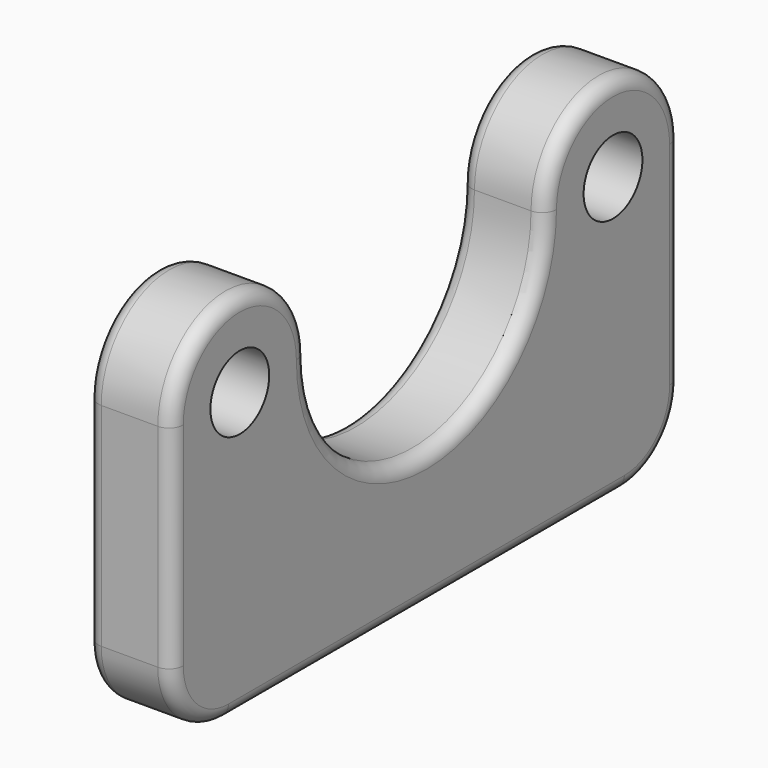
from build123d import *

# Parameters (mm, degrees)
F0_R     = 2.6
F1_DEPTH = 6
F2_R     = 1


with BuildPart() as f1:
    # F0 (on Right) → F1 (new body)
    with BuildSketch(Plane.YZ):
        with BuildLine():
            ThreePointArc((10.5, 0), (0, -10.5), (-10.5, 0))
            ThreePointArc((-10.5, 0), (-16.5, 6), (-22.5, 0))
            Line((-22.5, 0), (-22.5, -15))
            ThreePointArc((-22.5, -15), (-21.035534, -18.535534), (-17.5, -20))
            Line((-17.5, -20), (17.5, -20))
            ThreePointArc((17.5, -20), (21.035534, -18.535534), (22.5, -15))
            Line((22.5, -15), (22.5, 0))
            ThreePointArc((22.5, 0), (16.5, 6), (10.5, 0))
        make_face()
        with Locations((-16.5, 0)):
            Circle(F0_R, mode=Mode.SUBTRACT)
        with Locations((16.5, 0)):
            Circle(F0_R, mode=Mode.SUBTRACT)
    extrude(amount=F1_DEPTH)

    # F2
    f2_edges = [f1.edges().sort_by_distance(p)[0] for p in [
        (6, -22.5, -7.5),
        (0, -22.5, -7.5),
    ]]
    fillet(f2_edges, radius=F2_R)


solid = f1.part
